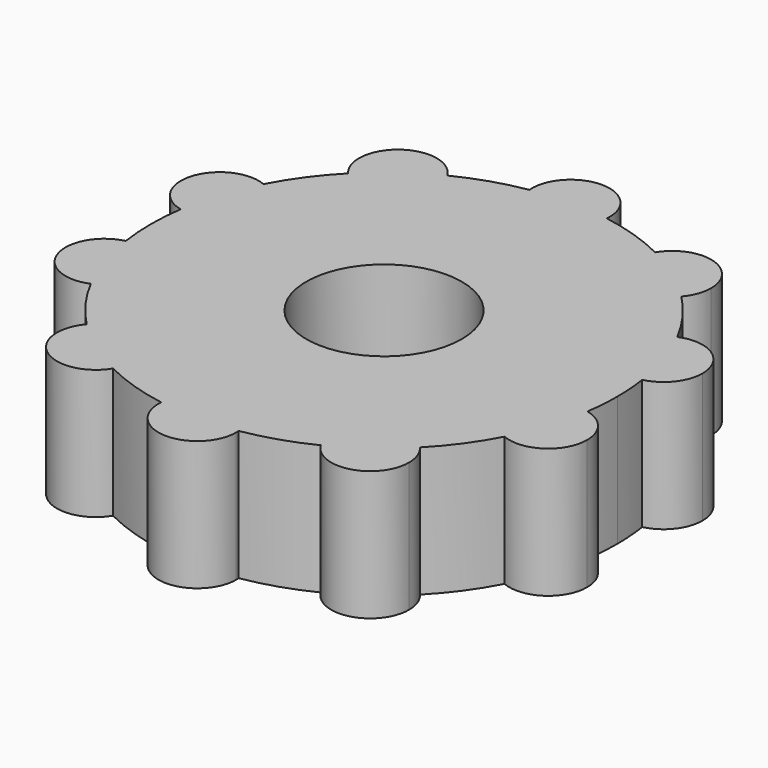
from build123d import *

# Parameters (mm, degrees)
F0_R     = 3
F1_DEPTH = 5
F2_R     = 3
F3_DEPTH = 3.5


with BuildPart() as f1:
    # F0 (on Top) → F1 (new body)
    with BuildSketch(Plane.XY):
        with BuildLine():
            ThreePointArc((-6.4258986346, 6.3014146616), (-5.2900672706, 7.2811529494), (-4.0072895936, 8.0586369886))
            ThreePointArc((-4.0072895936, 8.0586369886), (-6.1717451491, 8.4946784409), (-6.4258986346, 6.3014146616))
        make_face()
        with BuildLine():
            ThreePointArc((-1.4947825929, 8.875), (0, 9), (1.4947825929, 8.875))
            ThreePointArc((1.4947825929, 8.875), (1.4986950806, 8.937445581), (1.5, 9))
            ThreePointArc((1.5, 9), (-0.062554419, 10.4986950806), (-1.4947825929, 8.875))
        make_face()
        with BuildLine():
            ThreePointArc((4.0072895936, 8.0586369886), (5.2900672706, 7.2811529494), (6.4258986346, 6.3014146616))
            ThreePointArc((6.4258986346, 6.3014146616), (6.6960806145, 6.7585379123), (6.7900672706, 7.2811529494))
            ThreePointArc((6.7900672706, 7.2811529494), (5.6936967321, 8.7258270503), (4.0072895936, 8.0586369886))
        make_face()
        with BuildLine():
            ThreePointArc((7.978713358, 4.1641485505), (8.5595086467, 2.7811529494), (8.9025398062, 1.3209030997))
            ThreePointArc((8.9025398062, 1.3209030997), (9.7352098713, 1.8496344953), (10.0595086467, 2.7811529494))
            ThreePointArc((10.0595086467, 2.7811529494), (9.3898119247, 4.0303913039), (7.978713358, 4.1641485505))
        make_face()
        with BuildLine():
            ThreePointArc((10.0595086467, -2.7811529494), (9.7352098713, -1.8496344953), (8.9025398062, -1.3209030997))
            ThreePointArc((8.9025398062, -1.3209030997), (8.5595086467, -2.7811529494), (7.978713358, -4.1641485505))
            ThreePointArc((7.978713358, -4.1641485505), (9.3898119247, -4.0303913039), (10.0595086467, -2.7811529494))
        make_face()
        with BuildLine():
            ThreePointArc((6.7900672706, -7.2811529494), (6.6960806145, -6.7585379123), (6.4258986346, -6.3014146616))
            ThreePointArc((6.4258986346, -6.3014146616), (5.2900672706, -7.2811529494), (4.0072895936, -8.0586369886))
            ThreePointArc((4.0072895936, -8.0586369886), (5.6936967321, -8.7258270503), (6.7900672706, -7.2811529494))
        make_face()
        with BuildLine():
            ThreePointArc((1.5, -9), (1.4986950806, -8.937445581), (1.4947825929, -8.875))
            ThreePointArc((1.4947825929, -8.875), (0, -9), (-1.4947825929, -8.875))
            ThreePointArc((-1.4947825929, -8.875), (-0.062554419, -10.4986950806), (1.5, -9))
        make_face()
        with BuildLine():
            ThreePointArc((-6.4258986346, -6.3014146616), (-6.1717451491, -8.4946784409), (-4.0072895936, -8.0586369886))
            ThreePointArc((-4.0072895936, -8.0586369886), (-5.2900672706, -7.2811529494), (-6.4258986346, -6.3014146616))
        make_face()
        with BuildLine():
            ThreePointArc((-8.9025398062, -1.3209030997), (-9.9860934211, -3.2446784409), (-7.978713358, -4.1641485505))
            ThreePointArc((-7.978713358, -4.1641485505), (-8.5595086467, -2.7811529494), (-8.9025398062, -1.3209030997))
        make_face()
        with BuildLine():
            ThreePointArc((-8.9025398062, 1.3209030997), (-8.5595086467, 2.7811529494), (-7.978713358, 4.1641485505))
            ThreePointArc((-7.978713358, 4.1641485505), (-9.9860934211, 3.2446784409), (-8.9025398062, 1.3209030997))
        make_face()
        with BuildLine():
            ThreePointArc((8.9025398062, -1.3209030997), (8.9756018811, -0.6622468362), (9, 0))
            ThreePointArc((9, 0), (8.9756018811, 0.6622468362), (8.9025398062, 1.3209030997))
            ThreePointArc((8.9025398062, 1.3209030997), (7.1329238722, 2.3176274578), (7.978713358, 4.1641485505))
            ThreePointArc((7.978713358, 4.1641485505), (7.2811529494, 5.2900672706), (6.4258986346, 6.3014146616))
            ThreePointArc((6.4258986346, 6.3014146616), (4.4083893922, 6.0676274578), (4.0072895936, 8.0586369886))
            ThreePointArc((4.0072895936, 8.0586369886), (2.7811529494, 8.5595086467), (1.4947825929, 8.875))
            ThreePointArc((1.4947825929, 8.875), (0, 7.5), (-1.4947825929, 8.875))
            ThreePointArc((-1.4947825929, 8.875), (-2.7811529494, 8.5595086467), (-4.0072895936, 8.0586369886))
            ThreePointArc((-4.0072895936, 8.0586369886), (-3.8453931697, 7.6847824109), (-3.7900672706, 7.2811529494))
            ThreePointArc((-3.7900672706, 7.2811529494), (-4.7674522335, 5.8751396056), (-6.4258986346, 6.3014146616))
            ThreePointArc((-6.4258986346, 6.3014146616), (-7.2811529494, 5.2900672706), (-7.978713358, 4.1641485505))
            ThreePointArc((-7.978713358, 4.1641485505), (-7.3102702921, 3.6114562274), (-7.0595086467, 2.7811529494))
            ThreePointArc((-7.0595086467, 2.7811529494), (-7.6279901926, 1.6054517247), (-8.9025398062, 1.3209030997))
            ThreePointArc((-8.9025398062, 1.3209030997), (-9, 0), (-8.9025398062, -1.3209030997))
            ThreePointArc((-8.9025398062, -1.3209030997), (-7.6279901926, -1.6054517247), (-7.0595086467, -2.7811529494))
            ThreePointArc((-7.0595086467, -2.7811529494), (-7.3102702921, -3.6114562274), (-7.978713358, -4.1641485505))
            ThreePointArc((-7.978713358, -4.1641485505), (-7.2811529494, -5.2900672706), (-6.4258986346, -6.3014146616))
            ThreePointArc((-6.4258986346, -6.3014146616), (-4.7674522335, -5.8751396056), (-3.7900672706, -7.2811529494))
            ThreePointArc((-3.7900672706, -7.2811529494), (-3.8453931697, -7.6847824109), (-4.0072895936, -8.0586369886))
            ThreePointArc((-4.0072895936, -8.0586369886), (-2.7811529494, -8.5595086467), (-1.4947825929, -8.875))
            ThreePointArc((-1.4947825929, -8.875), (0, -7.5), (1.4947825929, -8.875))
            ThreePointArc((1.4947825929, -8.875), (2.7811529494, -8.5595086467), (4.0072895936, -8.0586369886))
            ThreePointArc((4.0072895936, -8.0586369886), (4.4083893922, -6.0676274578), (6.4258986346, -6.3014146616))
            ThreePointArc((6.4258986346, -6.3014146616), (7.2811529494, -5.2900672706), (7.978713358, -4.1641485505))
            ThreePointArc((7.978713358, -4.1641485505), (7.1329238722, -2.3176274578), (8.9025398062, -1.3209030997))
        make_face()
        Circle(F0_R, mode=Mode.SUBTRACT)
        with BuildLine():
            ThreePointArc((-7.0595086467, 2.7811529494), (-7.3102702921, 3.6114562274), (-7.978713358, 4.1641485505))
            ThreePointArc((-7.978713358, 4.1641485505), (-8.5595086467, 2.7811529494), (-8.9025398062, 1.3209030997))
            ThreePointArc((-8.9025398062, 1.3209030997), (-7.6279901926, 1.6054517247), (-7.0595086467, 2.7811529494))
        make_face()
        with BuildLine():
            ThreePointArc((-3.7900672706, 7.2811529494), (-3.8453931697, 7.6847824109), (-4.0072895936, 8.0586369886))
            ThreePointArc((-4.0072895936, 8.0586369886), (-5.2900672706, 7.2811529494), (-6.4258986346, 6.3014146616))
            ThreePointArc((-6.4258986346, 6.3014146616), (-4.7674522335, 5.8751396056), (-3.7900672706, 7.2811529494))
        make_face()
        with BuildLine():
            ThreePointArc((-1.4947825929, 8.875), (0, 7.5), (1.4947825929, 8.875))
            ThreePointArc((1.4947825929, 8.875), (0, 9), (-1.4947825929, 8.875))
        make_face()
        with BuildLine():
            ThreePointArc((4.0072895936, 8.0586369886), (4.4083893922, 6.0676274578), (6.4258986346, 6.3014146616))
            ThreePointArc((6.4258986346, 6.3014146616), (5.2900672706, 7.2811529494), (4.0072895936, 8.0586369886))
        make_face()
        with BuildLine():
            ThreePointArc((7.978713358, 4.1641485505), (7.1329238722, 2.3176274578), (8.9025398062, 1.3209030997))
            ThreePointArc((8.9025398062, 1.3209030997), (8.5595086467, 2.7811529494), (7.978713358, 4.1641485505))
        make_face()
        with BuildLine():
            ThreePointArc((7.978713358, -4.1641485505), (8.5595086467, -2.7811529494), (8.9025398062, -1.3209030997))
            ThreePointArc((8.9025398062, -1.3209030997), (7.1329238722, -2.3176274578), (7.978713358, -4.1641485505))
        make_face()
        with BuildLine():
            ThreePointArc((4.0072895936, -8.0586369886), (5.2900672706, -7.2811529494), (6.4258986346, -6.3014146616))
            ThreePointArc((6.4258986346, -6.3014146616), (4.4083893922, -6.0676274578), (4.0072895936, -8.0586369886))
        make_face()
        with BuildLine():
            ThreePointArc((-1.4947825929, -8.875), (0, -9), (1.4947825929, -8.875))
            ThreePointArc((1.4947825929, -8.875), (0, -7.5), (-1.4947825929, -8.875))
        make_face()
        Circle(F0_R)
        with BuildLine():
            ThreePointArc((-6.4258986346, -6.3014146616), (-5.2900672706, -7.2811529494), (-4.0072895936, -8.0586369886))
            ThreePointArc((-4.0072895936, -8.0586369886), (-3.8453931697, -7.6847824109), (-3.7900672706, -7.2811529494))
            ThreePointArc((-3.7900672706, -7.2811529494), (-4.7674522335, -5.8751396056), (-6.4258986346, -6.3014146616))
        make_face()
        with BuildLine():
            ThreePointArc((-8.9025398062, -1.3209030997), (-8.5595086467, -2.7811529494), (-7.978713358, -4.1641485505))
            ThreePointArc((-7.978713358, -4.1641485505), (-7.3102702921, -3.6114562274), (-7.0595086467, -2.7811529494))
            ThreePointArc((-7.0595086467, -2.7811529494), (-7.6279901926, -1.6054517247), (-8.9025398062, -1.3209030997))
        make_face()
    extrude(amount=F1_DEPTH)

    # F2 (on face) → F3 (cut)
    with BuildSketch(Plane.XY.offset(5)):
        Circle(F2_R)
    extrude(amount=-F3_DEPTH, mode=Mode.SUBTRACT)


solid = f1.part
